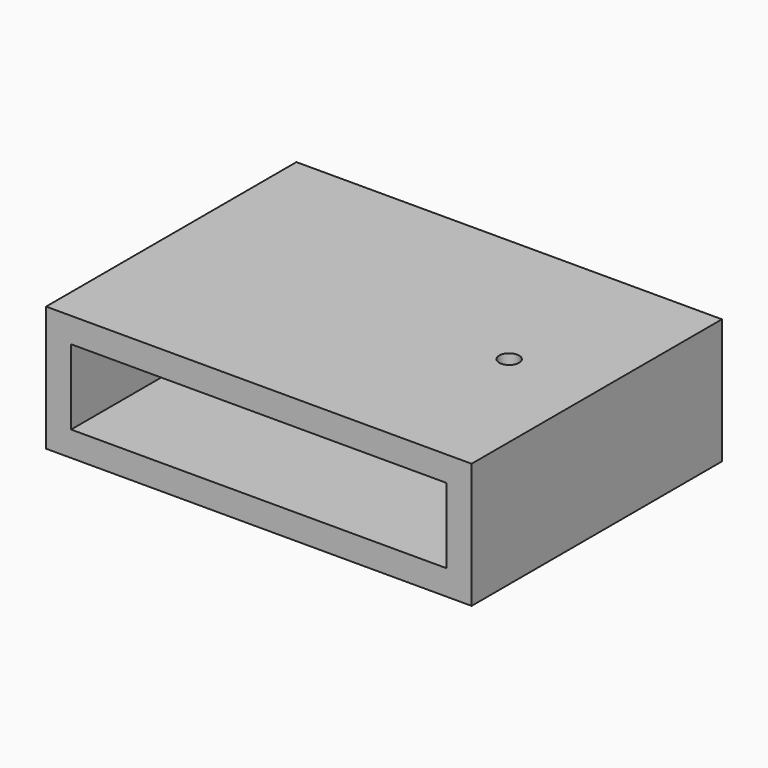
from build123d import *

# Parameters (mm, degrees)
F0_W     = 60
F0_H     = 50
F0_W_2   = 23
F0_H_2   = 12.5
F0_R     = 1.5875
F1_DEPTH = 4
F0_W_3   = 4
F2_DEPTH = 20
F4_W     = 60
F4_H     = 50
F4_R     = 1.5875
F5_DEPTH = 4


with BuildPart() as f1:
    # F0 (on Top) → F1 (new body)
    with BuildSketch(Plane.XY):
        Rectangle(F0_W, F0_H)
        with Locations((0.25, 0)):
            Rectangle(F0_W_2, F0_H_2, mode=Mode.SUBTRACT)
        with Locations((20, 0)):
            Circle(F0_R, mode=Mode.SUBTRACT)
    extrude(amount=F1_DEPTH)

    # F0 (on Top) → F2 (join)
    with BuildSketch(Plane.XY):
        with Locations((-32, 0)):
            Rectangle(F0_W_3, F0_H)
        with Locations((32, 0)):
            Rectangle(F0_W_3, F0_H)
    extrude(amount=F2_DEPTH)

    # F4 (on offset) → F5 (join)
    with BuildSketch(Plane.XY.offset(20)):
        Rectangle(F4_W, F4_H)
        with Locations((20, 0)):
            Circle(F4_R, mode=Mode.SUBTRACT)
    extrude(amount=-F5_DEPTH)


solid = f1.part
